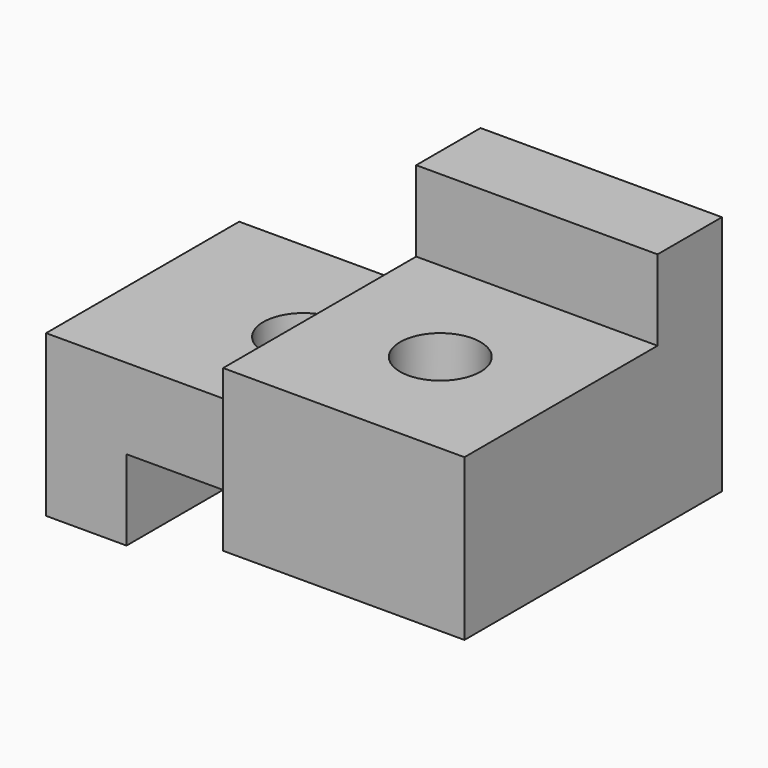
from build123d import *

# Parameters (mm, degrees)
F0_W     = 30
F0_H     = 40
F0_R     = 5
F1_DEPTH = 20
F2_W     = 30
F2_H     = 10
F3_DEPTH = 10
F4_W     = 30
F4_H     = 10
F5_DEPTH = 30
F6_R     = 5
F7_DEPTH = 25
F8_W     = 10
F8_H     = 30
F9_DEPTH = 10


with BuildPart() as f1:
    # F0 (on Top) → F1 (new body)
    with BuildSketch(Plane.XY):
        with Locations((15, 20)):
            Rectangle(F0_W, F0_H)
        with Locations((15, 15)):
            Circle(F0_R, mode=Mode.SUBTRACT)
    extrude(amount=F1_DEPTH)

    # F2 (on face) → F3 (join)
    with BuildSketch(Plane.XY.offset(20)):
        with Locations((15, 35)):
            Rectangle(F2_W, F2_H)
    extrude(amount=F3_DEPTH)

    # F4 (on face) → F5 (join)
    with BuildSketch(Plane(origin=(0, 0, 0), x_dir=(0, -1, 0), z_dir=(-1, 0, 0))):
        with Locations((-25, 5)):
            Rectangle(F4_W, F4_H)
    extrude(amount=F5_DEPTH)

    # F6 (on face) → F7 (cut)
    with BuildSketch(Plane.XY.offset(10)):
        with Locations((-10, 25)):
            Circle(F6_R)
    extrude(amount=-F7_DEPTH, mode=Mode.SUBTRACT)

    # F8 (on face) → F9 (join)
    with BuildSketch(Plane(origin=(0, 0, 0), x_dir=(1, 0, 0), z_dir=(0, 0, -1))):
        with Locations((-25, -25)):
            Rectangle(F8_W, F8_H)
    extrude(amount=F9_DEPTH)


solid = f1.part
